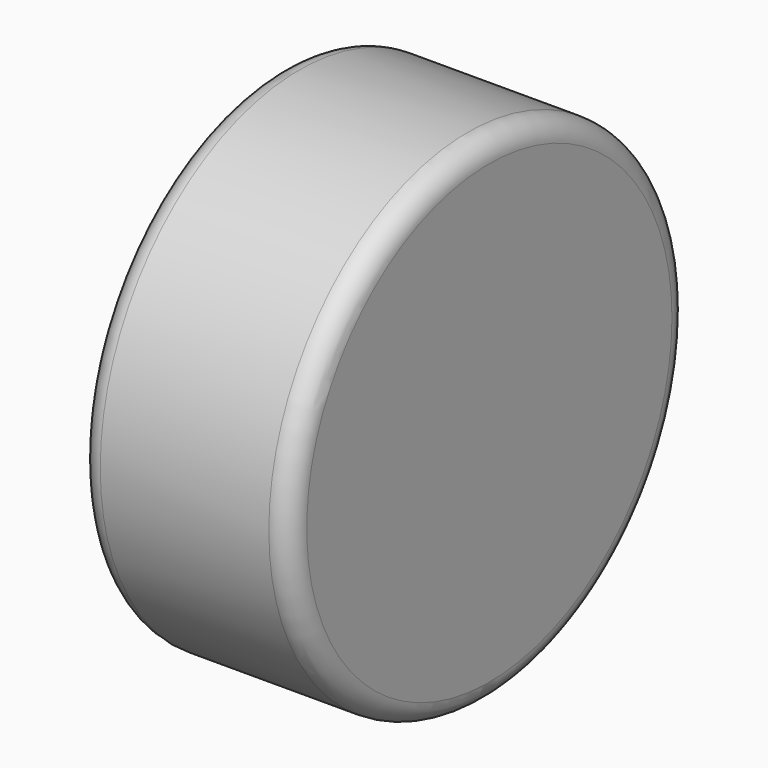
from build123d import *

# Parameters (mm, degrees)
SKETCH030_R     = 35.5
PAD012_DEPTH    = 30
SKETCH031_R     = 24
POCKET_DEPTH    = 25
SKETCH032_R     = 8
PAD013_DEPTH    = 12
POCKET001_DEPTH = 3
SKETCH004_R     = 1.5
POCKET002_DEPTH = 3
FILLET016_R     = 3
FILLET017_R     = 3


with BuildPart() as part:
    # Sketch030 → Pad012 (new body)
    with BuildSketch(Plane.YZ):
        with Locations((-2.086398, 2.086246)):
            Circle(SKETCH030_R)
    extrude(amount=PAD012_DEPTH)

    # Sketch031 (on Face2 of Pad012) → Pocket (cut)
    with BuildSketch(Plane(origin=(0, 0, 0), x_dir=(0, 1, 0), z_dir=(-1, 0, 0))):
        with Locations((-1.664763, -2.119737)):
            Circle(SKETCH031_R)
    extrude(amount=-POCKET_DEPTH, mode=Mode.SUBTRACT)

    # Sketch032 (on Face5 of Pocket) → Pad013 (join)
    with BuildSketch(Plane(origin=(25, 0, 0), x_dir=(0, 1, 0), z_dir=(-1, 0, 0))):
        with Locations((-1.350817, -2.732668)):
            Circle(SKETCH032_R)
    extrude(amount=PAD013_DEPTH)

    # Sketch033 (on Face7 of Pad013) → Pocket001 (cut)
    with BuildSketch(Plane(origin=(13, 0, 0), x_dir=(0, 1, 0), z_dir=(-1, 0, 0))):
        Polygon((-1.111872, 4.248012), (-7.222761, 0.700721), (-7.206161, -6.365109), (-1.078672, -9.883648), (5.032216, -6.336357), (5.015616, 0.729474), align=None)
    extrude(amount=-POCKET001_DEPTH, mode=Mode.SUBTRACT)

    # Sketch004 (on Face14 of Pocket001) → Pocket002 (cut)
    with BuildSketch(Plane(origin=(16, 0, 0), x_dir=(0, 1, 0), z_dir=(-1, 0, 0))):
        with Locations((-0.927213, -2.793039)):
            Circle(SKETCH004_R)
    extrude(amount=-POCKET002_DEPTH, mode=Mode.SUBTRACT)

    # Fillet016
    fillet016_edges = [part.edges().sort_by_distance(p)[0] for p in [
        (0, -37.586398, 2.086246),
    ]]
    fillet(fillet016_edges, radius=FILLET016_R)

    # Fillet017
    fillet017_edges = [part.edges().sort_by_distance(p)[0] for p in [
        (30, -37.586398, 2.086246),
    ]]
    fillet(fillet017_edges, radius=FILLET017_R)


with BuildPart() as part_1:
    # Body001 placement: moved
    add(part.part.moved(Location((77, -11, 5))))


solid = part_1.part
